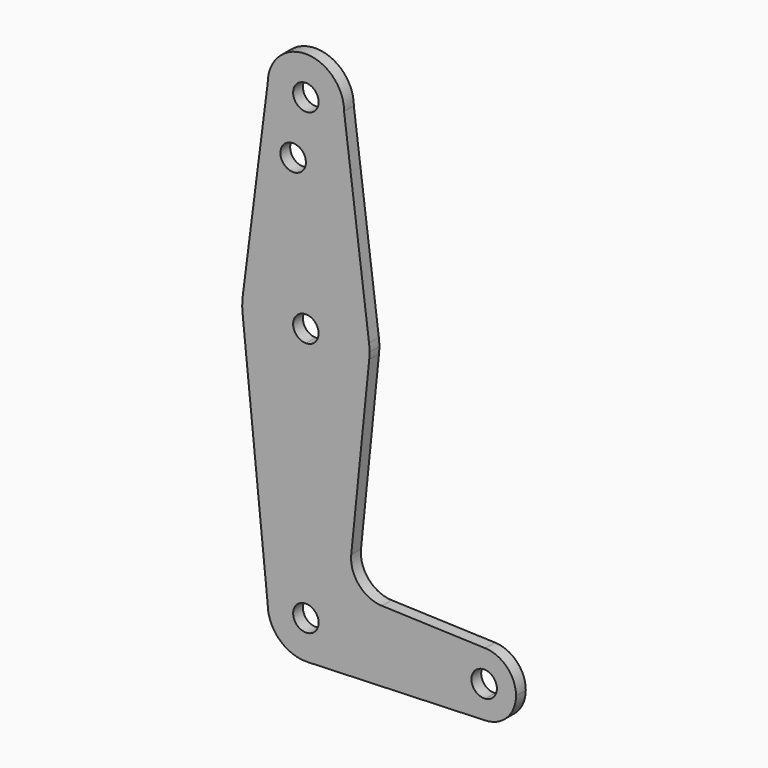
from build123d import *

# Parameters (mm, degrees)
F0_R     = 3.175
F1_DEPTH = 3.048


with BuildPart() as f1:
    # F0 (on Front) → F1 (new body)
    with BuildSketch(Plane.XZ):
        with BuildLine():
            ThreePointArc((0.3401786191, -9.5189234427), (6.8544083022, -6.6138273206), (9.525, 0))
            ThreePointArc((9.525, 0), (6.7351920908, 6.7351920908), (0, 9.525))
            ThreePointArc((0, 9.525), (-6.7351920908, 6.7351920908), (-9.525, 0))
            ThreePointArc((-9.525, 0), (-6.6138273206, -6.8544083022), (0.3401786191, -9.5189234427))
        make_face()
        with BuildLine():
            ThreePointArc((3.175, 0), (-2.2450640303, -2.2450640303), (0, 3.175))
            ThreePointArc((0, 3.175), (2.2450640303, 2.2450640303), (3.175, 0))
        make_face(mode=Mode.SUBTRACT)
        with BuildLine():
            ThreePointArc((0, 9.525), (6.7351920908, 6.7351920908), (9.525, 0))
            ThreePointArc((9.525, 0), (6.8544083022, -6.6138273206), (0.3401786191, -9.5189234427))
            Line((0.3401786191, -9.5189234427), (44.7334821429, -7.9324362036))
            ThreePointArc((44.7334821429, -7.9324362036), (36.5125, 0), (44.7334821429, 7.9324362036))
            Line((44.7334821429, 7.9324362036), (18.9333780848, 8.8544567023))
            ThreePointArc((18.9333780848, 8.8544567023), (13.2249730469, 11.5748807596), (11.3075770351, 17.6006742893))
            Line((11.3075770351, 17.6006742893), (15.7942028036, 61.9003804205))
            ThreePointArc((15.7942028036, 61.9003804205), (10.644756084, 51.722700101), (0, 47.625))
            Line((0, 47.625), (0, 9.525))
        make_face()
        with BuildLine():
            ThreePointArc((-9.525, 0), (-6.7351920908, 6.7351920908), (0, 9.525))
            Line((0, 9.525), (0, 47.625))
            ThreePointArc((0, 47.625), (-10.644756084, 51.722700101), (-15.7942028036, 61.9003804205))
            Line((-15.7942028036, 61.9003804205), (-9.525, 0))
        make_face()
        with BuildLine():
            ThreePointArc((-15.7942028036, 61.9003804205), (-10.644756084, 51.722700101), (0, 47.625))
            ThreePointArc((0, 47.625), (10.644756084, 51.722700101), (15.7942028036, 61.9003804205))
            ThreePointArc((15.7942028036, 61.9003804205), (15.8547878338, 62.6991705884), (15.875, 63.5))
            ThreePointArc((15.875, 63.5), (15.8430821396, 64.5061676396), (15.7474569047, 65.5082893304))
            ThreePointArc((15.7474569047, 65.5082893304), (0, 79.375), (-15.7474569047, 65.5082893304))
            ThreePointArc((-15.7474569047, 65.5082893304), (-15.873667691, 63.7056672947), (-15.7942028036, 61.9003804205))
        make_face()
        with BuildLine():
            ThreePointArc((3.175, 63.5), (2.2450640303, 61.2549359697), (0, 60.325))
            ThreePointArc((0, 60.325), (-2.2450640303, 65.7450640303), (3.175, 63.5))
        make_face(mode=Mode.SUBTRACT)
        with BuildLine():
            Line((44.7334821429, -3.162319224), (44.7334821429, -7.9324362036))
            ThreePointArc((44.7334821429, -7.9324362036), (50.1620069047, -5.5115227815), (52.3875, 0))
            ThreePointArc((52.3875, 0), (50.1620069047, 5.5115227815), (44.7334821429, 7.9324362036))
            Line((44.7334821429, 7.9324362036), (44.7334821429, 3.162319224))
            ThreePointArc((44.7334821429, 3.162319224), (46.7931475416, 2.1424949471), (47.625, 0))
            ThreePointArc((47.625, 0), (46.7931475416, -2.1424949471), (44.7334821429, -3.162319224))
        make_face()
        with BuildLine():
            ThreePointArc((44.7334821429, 7.9324362036), (36.5125, 0), (44.7334821429, -7.9324362036))
            Line((44.7334821429, -7.9324362036), (44.7334821429, -3.162319224))
            ThreePointArc((44.7334821429, -3.162319224), (41.275, 0), (44.7334821429, 3.162319224))
            Line((44.7334821429, 3.162319224), (44.7334821429, 7.9324362036))
        make_face()
        with BuildLine():
            Line((-9.525, 114.3), (-15.7474569047, 65.5082893304))
            ThreePointArc((-15.7474569047, 65.5082893304), (0, 79.375), (15.7474569047, 65.5082893304))
            Line((15.7474569047, 65.5082893304), (9.525, 114.3))
            ThreePointArc((9.525, 114.3), (0, 104.775), (-9.525, 114.3))
        make_face()
        with Locations((-3.175, 100.0252)):
            Circle(F0_R, mode=Mode.SUBTRACT)
        with BuildLine():
            ThreePointArc((9.525, 114.3), (0, 123.825), (-9.525, 114.3))
            ThreePointArc((-9.525, 114.3), (0, 104.775), (9.525, 114.3))
        make_face()
        with Locations((0, 114.3)):
            Circle(F0_R, mode=Mode.SUBTRACT)
    extrude(amount=F1_DEPTH)


solid = f1.part
